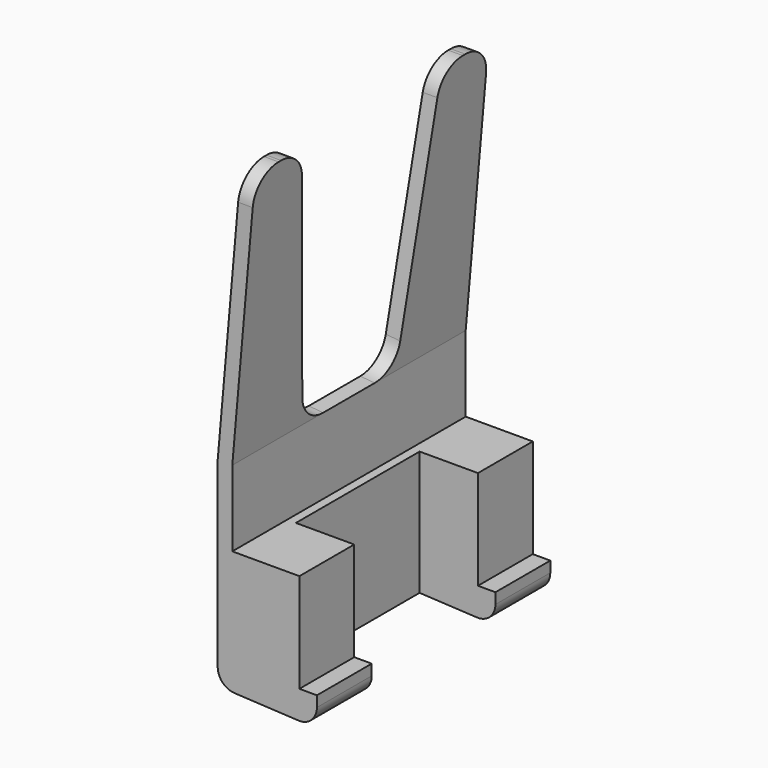
from build123d import *

# Parameters (mm, degrees)
F1_DEPTH = 50
F2_W     = 26.5
F2_H     = 29.9426466227
F2_H_2   = 5
F3_DEPTH = 13
F5_R     = 3
F7_DEPTH = 25
F8_R     = 5


with BuildPart() as f1:
    # F0 (on Front) → F1 (new body)
    with BuildSketch(Plane.XZ):
        Polygon((0, 35), (0, 0.8909322478), (17, 0), (17, 5), (14, 5), (14, 22), (2.5, 22), (2.5, 35), (6.4369898587, 80), (3.9369898587, 80), align=None)
    extrude(amount=F1_DEPTH)

    # F2 (on face) → F3 (cut)
    with BuildSketch(Plane.YZ.offset(17)):
        with Locations((-25, 19.9713233113)):
            Rectangle(F2_W, F2_H)
        with Locations((-25, 2.5)):
            Rectangle(F2_W, F2_H_2)
    extrude(amount=-F3_DEPTH, mode=Mode.SUBTRACT)

    # F5
    f5_edges = [f1.edges().sort_by_distance(p)[0] for p in [
        (0, -25, 0.890932),
        (17, -44.125, 0),
        (17, -5.875, 0),
    ]]
    fillet(f5_edges, radius=F5_R)

    # F6 (on face) → F7 (cut)
    with BuildSketch(Plane(origin=(-0.5578334179, 0, 0.0488041002), x_dir=(0, 1, 0), z_dir=(0.9961946981, 0, -0.0871557427))):
        Polygon((-40, 80.2565964795), (-35, 35.0847037901), (-15, 35.0847037901), (-10, 80.2565964795), align=None)
    extrude(amount=-F7_DEPTH, mode=Mode.SUBTRACT)

    # F8
    f8_edges = [f1.edges().sort_by_distance(p)[0] for p in [
        (5.18699, -50, 80),
        (5.18699, -39.987941, 80),
        (5.18699, -10.012059, 80),
        (5.18699, 0, 80),
        (1.259495, -15, 35.10853),
        (1.259495, -35, 35.10853),
    ]]
    fillet(f8_edges, radius=F8_R)


solid = f1.part
